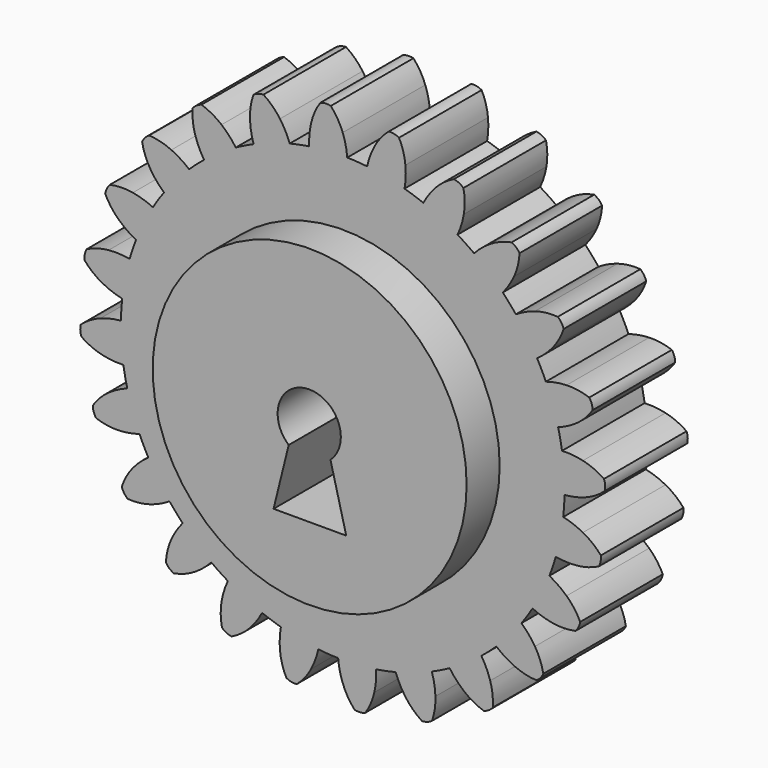
from build123d import *

# Parameters (mm, degrees)
F0_R     = 38.014448
F1_DEPTH = 25
F2_COUNT = 24
F3_DEPTH = 35


with BuildPart() as f1:
    # F0 (on Front) → F1 (new body)
    with BuildSketch(Plane.XZ):
        with BuildLine():
            ThreePointArc((-8.108463, 53.105543), (-35.002508, -40.752549), (53.721, 0))
            ThreePointArc((53.721, 0), (38.376022, 37.592909), (1.107429, 53.709584))
            ThreePointArc((1.107429, 53.709584), (-3.513522, 53.605979), (-8.108463, 53.105543))
        make_face()
        Circle(F0_R, mode=Mode.SUBTRACT)
        with BuildLine():
            ThreePointArc((-8.108463, 53.105543), (-3.513522, 53.605979), (1.107429, 53.709584))
            ThreePointArc((1.107429, 53.709584), (0.722894, 56.229532), (0, 58.674))
            ThreePointArc((0, 58.674), (-1.213214, 61.189629), (-2.874224, 63.434918))
            ThreePointArc((-2.874224, 63.434918), (-4.165081, 63.546858), (-5.430284, 63.267385))
            ThreePointArc((-5.430284, 63.267385), (-6.784015, 60.824499), (-7.658494, 58.172036))
            ThreePointArc((-7.658494, 58.172036), (-8.056136, 55.654124), (-8.108463, 53.105543))
        make_face()
    extrude(amount=F1_DEPTH)



with BuildPart() as f2_1:
    # F2: instance of F1
    add(f1.part.rotate(Axis((0, 0, 0), (0, 1, 0)), 1 * 360 / F2_COUNT))


with BuildPart() as f2_2:
    # F2: instance of F1
    add(f1.part.rotate(Axis((0, 0, 0), (0, 1, 0)), 2 * 360 / F2_COUNT))


with BuildPart() as f2_3:
    # F2: instance of F1
    add(f1.part.rotate(Axis((0, 0, 0), (0, 1, 0)), 3 * 360 / F2_COUNT))


with BuildPart() as f2_4:
    # F2: instance of F1
    add(f1.part.rotate(Axis((0, 0, 0), (0, 1, 0)), 4 * 360 / F2_COUNT))


with BuildPart() as f2_5:
    # F2: instance of F1
    add(f1.part.rotate(Axis((0, 0, 0), (0, 1, 0)), 5 * 360 / F2_COUNT))


with BuildPart() as f2_6:
    # F2: instance of F1
    add(f1.part.rotate(Axis((0, 0, 0), (0, 1, 0)), 6 * 360 / F2_COUNT))


with BuildPart() as f2_7:
    # F2: instance of F1
    add(f1.part.rotate(Axis((0, 0, 0), (0, 1, 0)), 7 * 360 / F2_COUNT))


with BuildPart() as f2_8:
    # F2: instance of F1
    add(f1.part.rotate(Axis((0, 0, 0), (0, 1, 0)), 8 * 360 / F2_COUNT))


with BuildPart() as f2_9:
    # F2: instance of F1
    add(f1.part.rotate(Axis((0, 0, 0), (0, 1, 0)), 9 * 360 / F2_COUNT))


with BuildPart() as f2_10:
    # F2: instance of F1
    add(f1.part.rotate(Axis((0, 0, 0), (0, 1, 0)), 10 * 360 / F2_COUNT))


with BuildPart() as f2_11:
    # F2: instance of F1
    add(f1.part.rotate(Axis((0, 0, 0), (0, 1, 0)), 11 * 360 / F2_COUNT))


with BuildPart() as f2_12:
    # F2: instance of F1
    add(f1.part.rotate(Axis((0, 0, 0), (0, 1, 0)), 12 * 360 / F2_COUNT))


with BuildPart() as f2_13:
    # F2: instance of F1
    add(f1.part.rotate(Axis((0, 0, 0), (0, 1, 0)), 13 * 360 / F2_COUNT))


with BuildPart() as f2_14:
    # F2: instance of F1
    add(f1.part.rotate(Axis((0, 0, 0), (0, 1, 0)), 14 * 360 / F2_COUNT))


with BuildPart() as f2_15:
    # F2: instance of F1
    add(f1.part.rotate(Axis((0, 0, 0), (0, 1, 0)), 15 * 360 / F2_COUNT))


with BuildPart() as f2_16:
    # F2: instance of F1
    add(f1.part.rotate(Axis((0, 0, 0), (0, 1, 0)), 16 * 360 / F2_COUNT))


with BuildPart() as f2_17:
    # F2: instance of F1
    add(f1.part.rotate(Axis((0, 0, 0), (0, 1, 0)), 17 * 360 / F2_COUNT))


with BuildPart() as f2_18:
    # F2: instance of F1
    add(f1.part.rotate(Axis((0, 0, 0), (0, 1, 0)), 18 * 360 / F2_COUNT))


with BuildPart() as f2_19:
    # F2: instance of F1
    add(f1.part.rotate(Axis((0, 0, 0), (0, 1, 0)), 19 * 360 / F2_COUNT))


with BuildPart() as f2_20:
    # F2: instance of F1
    add(f1.part.rotate(Axis((0, 0, 0), (0, 1, 0)), 20 * 360 / F2_COUNT))


with BuildPart() as f2_21:
    # F2: instance of F1
    add(f1.part.rotate(Axis((0, 0, 0), (0, 1, 0)), 21 * 360 / F2_COUNT))


with BuildPart() as f2_22:
    # F2: instance of F1
    add(f1.part.rotate(Axis((0, 0, 0), (0, 1, 0)), 22 * 360 / F2_COUNT))


with BuildPart() as f2_23:
    # F2: instance of F1
    add(f1.part.rotate(Axis((0, 0, 0), (0, 1, 0)), 23 * 360 / F2_COUNT))


with BuildPart() as f1_1:
    add(f1.part)

    add(f2_1.part)  # F3 merges F2_1

    add(f2_2.part)  # F3 merges F2_2

    add(f2_3.part)  # F3 merges F2_3

    add(f2_4.part)  # F3 merges F2_4

    add(f2_5.part)  # F3 merges F2_5

    add(f2_6.part)  # F3 merges F2_6

    add(f2_7.part)  # F3 merges F2_7

    add(f2_8.part)  # F3 merges F2_8

    add(f2_9.part)  # F3 merges F2_9

    add(f2_10.part)  # F3 merges F2_10

    add(f2_11.part)  # F3 merges F2_11

    add(f2_12.part)  # F3 merges F2_12

    add(f2_13.part)  # F3 merges F2_13

    add(f2_14.part)  # F3 merges F2_14

    add(f2_15.part)  # F3 merges F2_15

    add(f2_16.part)  # F3 merges F2_16

    add(f2_17.part)  # F3 merges F2_17

    add(f2_18.part)  # F3 merges F2_18

    add(f2_19.part)  # F3 merges F2_19

    add(f2_20.part)  # F3 merges F2_20

    add(f2_21.part)  # F3 merges F2_21

    add(f2_22.part)  # F3 merges F2_22

    add(f2_23.part)  # F3 merges F2_23
    # F0 (on Front) → F3 (join)
    with BuildSketch(Plane.XZ):
        Circle(F0_R)
        with BuildLine():
            ThreePointArc((-5.076383, -5.507039), (-3.31023, 7.263736), (7.547953, 0.313063))
            ThreePointArc((7.547953, 0.313063), (6.89079, -2.789787), (5.032153, -5.359806))
            Line((5.032153, -5.359806), (8.856326, -20.303295))
            Line((8.856326, -20.303295), (-8.741196, -20.303295))
            Line((-8.741196, -20.303295), (-5.076383, -5.507039))
        make_face(mode=Mode.SUBTRACT)
    extrude(amount=F3_DEPTH)


solid = f1_1.part
